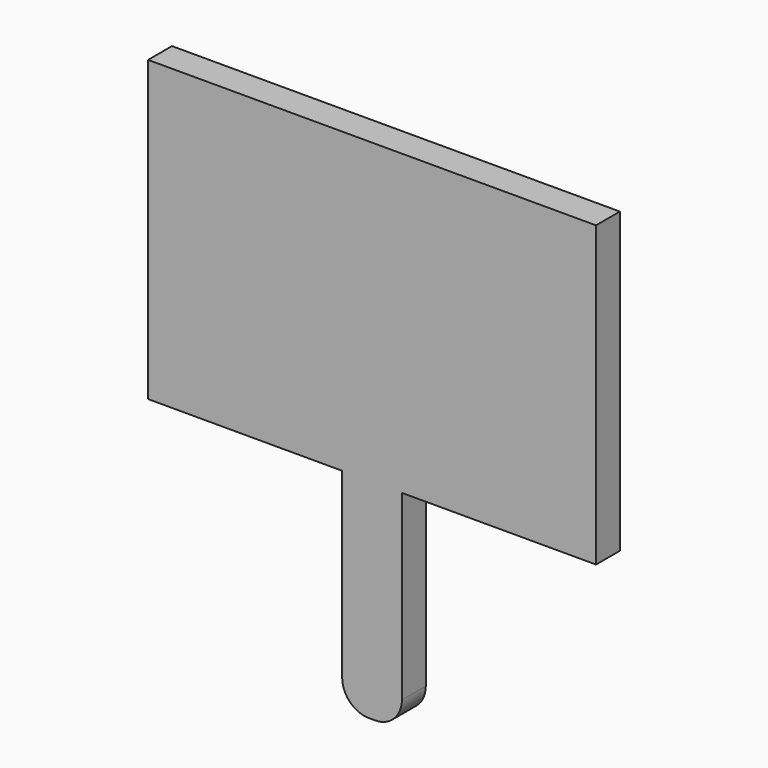
from build123d import *

# Parameters (mm, degrees)
SKETCH027_W  = 7.5
SKETCH027_H  = 0.5
PAD011_DEPTH = 5
SKETCH028_W  = 1
SKETCH028_H  = 0.5
PAD012_DEPTH = 3.5
FILLET006_R  = 0.45


with BuildPart() as part:
    # Sketch027 → Pad011 (new body)
    with BuildSketch(Plane.XY):
        with Locations((0, 4.92)):
            Rectangle(SKETCH027_W, SKETCH027_H)
    extrude(amount=PAD011_DEPTH)

    # Sketch028 (on Face5 of Pad011) → Pad012 (join)
    with BuildSketch(Plane(origin=(0, 0, 0), x_dir=(1, 0, 0), z_dir=(0, 0, -1))):
        with Locations((0, -4.92)):
            Rectangle(SKETCH028_W, SKETCH028_H)
    extrude(amount=PAD012_DEPTH)

    # Fillet006
    fillet006_edges = [part.edges().sort_by_distance(p)[0] for p in [
        (0.5, 4.92, -3.5),
        (-0.5, 4.92, -3.5),
    ]]
    fillet(fillet006_edges, radius=FILLET006_R)


solid = part.part
